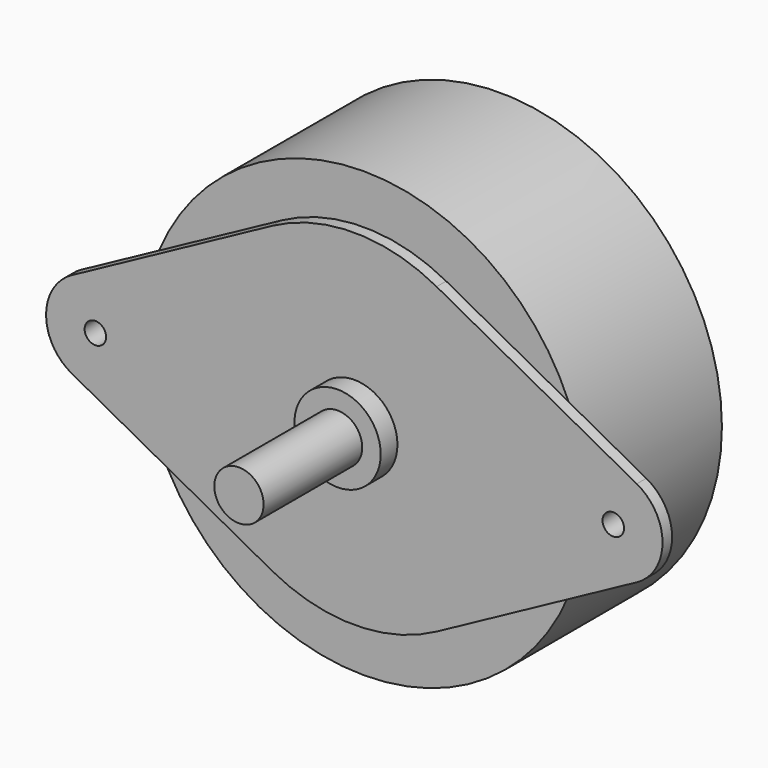
from build123d import *

# Parameters (mm, degrees)
F0_R      = 28.5877
F1_DEPTH  = 21.9329
F3_DEPTH  = 1.5367
F4_R      = 5.55625
F5_DEPTH  = 2.6924
F6_R      = 3.175
F7_DEPTH  = 15.8877
F8_R      = 3.53695
F9_DEPTH  = 1.9812
F10_R     = 1.3843
F11_DEPTH = 23.4706


with BuildPart() as f1:
    # F0 (on Front) → F1 (new body)
    with BuildSketch(Plane.XZ):
        Circle(F0_R)
    extrude(amount=-F1_DEPTH)

    # F2 (on face) → F3 (join)
    with BuildSketch(Plane.XZ):
        with BuildLine():
            Line((-10.604302, 19.560907), (-36.389242, 5.582451))
            ThreePointArc((-36.389242, 5.582451), (-39.7129, 0), (-36.389242, -5.582451))
            Line((-36.389242, -5.582451), (-10.604302, -19.560907))
            ThreePointArc((-10.604302, -19.560907), (0, -22.2504), (10.604302, -19.560907))
            Line((10.604302, -19.560907), (36.389242, -5.582451))
            ThreePointArc((36.389242, -5.582451), (39.7129, 0), (36.389242, 5.582451))
            Line((36.389242, 5.582451), (10.604302, 19.560907))
            ThreePointArc((10.604302, 19.560907), (0, 22.2504), (-10.604302, 19.560907))
        make_face()
    extrude(amount=F3_DEPTH)

    # F4 (on face) → F5 (join)
    with BuildSketch(Plane.XZ.offset(1.5367)):
        Circle(F4_R)
    extrude(amount=F5_DEPTH)

    # F6 (on face) → F7 (join)
    with BuildSketch(Plane.XZ.offset(4.2291)):
        Circle(F6_R)
    extrude(amount=F7_DEPTH)

    # F8 (on face) → F9 (join)
    with BuildSketch(Plane(origin=(0, 0, 0), x_dir=(-1, 0, 0), z_dir=(0, 1, 0))):
        with Locations((-33.3629, 0)):
            Circle(F8_R)
        with Locations((33.3629, 0)):
            Circle(F8_R)
    extrude(amount=F9_DEPTH)

    # F10 (on face) → F11 (cut, through all)
    with BuildSketch(Plane.XZ.offset(1.5367)):
        with Locations((33.3629, 0)):
            Circle(F10_R)
        with Locations((-33.3629, 0)):
            Circle(F10_R)
    extrude(amount=-F11_DEPTH, mode=Mode.SUBTRACT)


solid = f1.part
